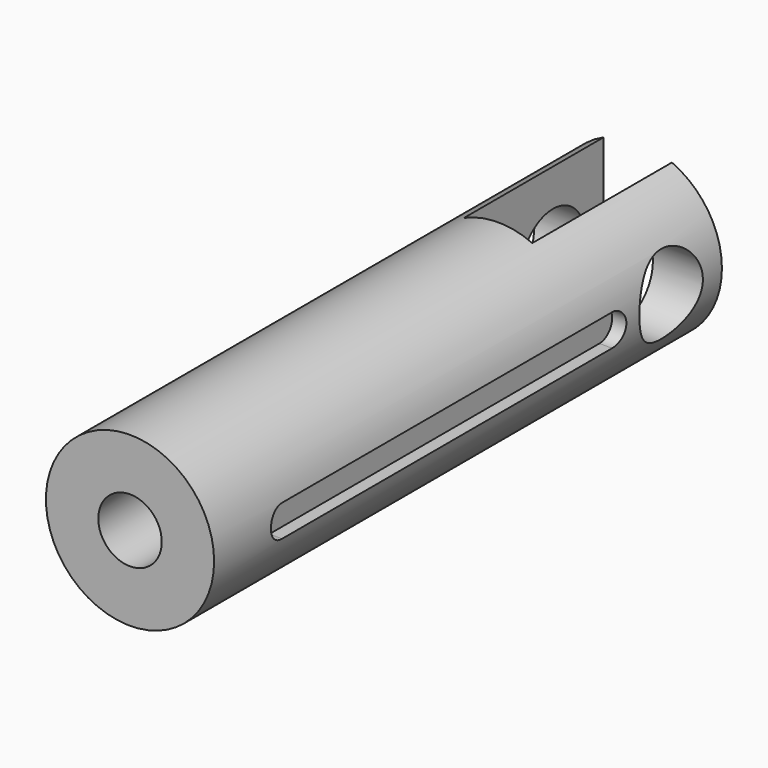
from build123d import *

# Parameters (mm, degrees)
F0_R      = 26.5
F1_DEPTH  = 200
F2_R      = 12.5
F3_DEPTH  = 30
F4_W      = 21.5
F4_H      = 60
F5_DEPTH  = 55
F8_DEPTH  = 10
F9_R      = 10
F10_DEPTH = 140


with BuildPart() as f1:
    # F0 (on Front) → F1 (new body)
    with BuildSketch(Plane.XZ):
        Circle(F0_R)
    extrude(amount=F1_DEPTH)

    # F2 (on Right) → F3 (cut, symmetric)
    with BuildSketch(Plane.YZ):
        with Locations((-20, 0)):
            Circle(F2_R)
    extrude(amount=F3_DEPTH, both=True, mode=Mode.SUBTRACT)

    # F4 (on Front) → F5 (cut)
    with BuildSketch(Plane.XZ):
        Rectangle(F4_W, F4_H)
    extrude(amount=F5_DEPTH, mode=Mode.SUBTRACT)

    # F7 (on offset) → F8 (cut)
    with BuildSketch(Plane.YZ.offset(22)):
        with BuildLine():
            Line((-42.6307463948, 4.9999999723), (-172.6307456746, 4.986315794))
            ThreePointArc((-172.6307456746, 4.986315794), (-177.630219249, -0.0147382518), (-172.6286375277, -5.0136839281))
            Line((-172.6286375277, -5.0136839281), (-42.6286382479, -4.9999997498))
            ThreePointArc((-42.6286382479, -4.9999997498), (-37.6302201914, 0.0010540735), (-42.6307463948, 4.9999999723))
        make_face()
    extrude(amount=F8_DEPTH, mode=Mode.SUBTRACT)

    # F9 (on face) → F10 (cut)
    with BuildSketch(Plane.XZ.offset(200)):
        Circle(F9_R)
    extrude(amount=-F10_DEPTH, mode=Mode.SUBTRACT)


solid = f1.part
